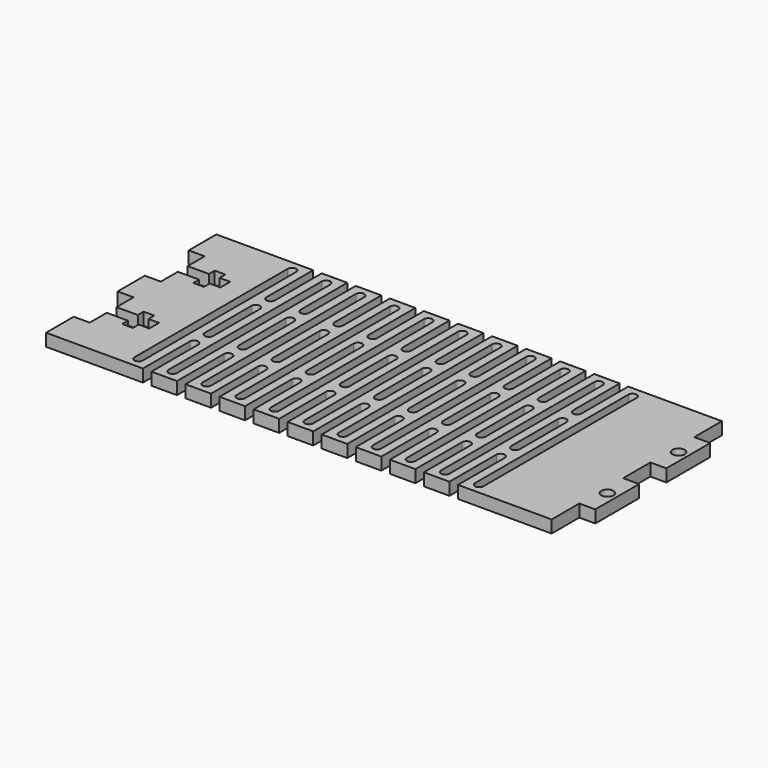
from build123d import *

# Parameters (mm, degrees)
F0_R     = 1.4605
F1_DEPTH = 2.9718


with BuildPart() as f1:
    # F0 (on Top) → F1 (new body)
    with BuildSketch(Plane.XY):
        with BuildLine():
            Line((3.81, 8.255), (0, 8.255))
            Line((0, 8.255), (0, 0))
            Line((0, 0), (23.114, 0))
            Line((23.114, 0), (23.114, 13.97))
            ThreePointArc((23.114, 13.97), (24.13, 14.986), (25.146, 13.97))
            Line((25.146, 13.97), (25.146, 0))
            Line((25.146, 0), (31.242, 0))
            Line((31.242, 0), (31.242, 13.97))
            ThreePointArc((31.242, 13.97), (32.258, 14.986), (33.274, 13.97))
            Line((33.274, 13.97), (33.274, 0))
            Line((33.274, 0), (39.37, 0))
            Line((39.37, 0), (39.37, 13.97))
            ThreePointArc((39.37, 13.97), (40.386, 14.986), (41.402, 13.97))
            Line((41.402, 13.97), (41.402, 0))
            Line((41.402, 0), (47.498, 0))
            Line((47.498, 0), (47.498, 13.97))
            ThreePointArc((47.498, 13.97), (48.514, 14.986), (49.53, 13.97))
            Line((49.53, 13.97), (49.53, 0))
            Line((49.53, 0), (55.626, 0))
            Line((55.626, 0), (55.626, 13.97))
            ThreePointArc((55.626, 13.97), (56.642, 14.986), (57.658, 13.97))
            Line((57.658, 13.97), (57.658, 0))
            Line((57.658, 0), (63.754, 0))
            Line((63.754, 0), (63.754, 13.97))
            ThreePointArc((63.754, 13.97), (64.77, 14.986), (65.786, 13.97))
            Line((65.786, 13.97), (65.786, 0))
            Line((65.786, 0), (71.882, 0))
            Line((71.882, 0), (71.882, 13.97))
            ThreePointArc((71.882, 13.97), (72.898, 14.986), (73.914, 13.97))
            Line((73.914, 13.97), (73.914, 0))
            Line((73.914, 0), (80.01, 0))
            Line((80.01, 0), (80.01, 13.97))
            ThreePointArc((80.01, 13.97), (81.026, 14.986), (82.042, 13.97))
            Line((82.042, 13.97), (82.042, 0))
            Line((82.042, 0), (88.138, 0))
            Line((88.138, 0), (88.138, 13.97))
            ThreePointArc((88.138, 13.97), (89.154, 14.986), (90.17, 13.97))
            Line((90.17, 13.97), (90.17, 0))
            Line((90.17, 0), (96.266, 0))
            Line((96.266, 0), (96.266, 13.97))
            ThreePointArc((96.266, 13.97), (97.282, 14.986), (98.298, 13.97))
            Line((98.298, 13.97), (98.298, 0))
            Line((98.298, 0), (120.65, 0))
            Line((120.65, 0), (120.65, 8.255))
            Line((120.65, 8.255), (124.46, 8.255))
            Line((124.46, 8.255), (124.46, 21.336))
            Line((124.46, 21.336), (120.65, 21.336))
            Line((120.65, 21.336), (120.65, 29.464))
            Line((120.65, 29.464), (124.46, 29.464))
            Line((124.46, 29.464), (124.46, 42.545))
            Line((124.46, 42.545), (120.65, 42.545))
            Line((120.65, 42.545), (120.65, 50.8))
            Line((120.65, 50.8), (98.298, 50.8))
            Line((98.298, 50.8), (98.298, 36.83))
            ThreePointArc((98.298, 36.83), (97.282, 35.814), (96.266, 36.83))
            Line((96.266, 36.83), (96.266, 50.8))
            Line((96.266, 50.8), (90.17, 50.8))
            Line((90.17, 50.8), (90.17, 36.83))
            ThreePointArc((90.17, 36.83), (89.154, 35.814), (88.138, 36.83))
            Line((88.138, 36.83), (88.138, 50.8))
            Line((88.138, 50.8), (82.042, 50.8))
            Line((82.042, 50.8), (82.042, 36.83))
            ThreePointArc((82.042, 36.83), (81.026, 35.814), (80.01, 36.83))
            Line((80.01, 36.83), (80.01, 50.8))
            Line((80.01, 50.8), (73.914, 50.8))
            Line((73.914, 50.8), (73.914, 36.83))
            ThreePointArc((73.914, 36.83), (72.898, 35.814), (71.882, 36.83))
            Line((71.882, 36.83), (71.882, 50.8))
            Line((71.882, 50.8), (65.786, 50.8))
            Line((65.786, 50.8), (65.786, 36.83))
            ThreePointArc((65.786, 36.83), (64.77, 35.814), (63.754, 36.83))
            Line((63.754, 36.83), (63.754, 50.8))
            Line((63.754, 50.8), (57.658, 50.8))
            Line((57.658, 50.8), (57.658, 36.83))
            ThreePointArc((57.658, 36.83), (56.642, 35.814), (55.626, 36.83))
            Line((55.626, 36.83), (55.626, 50.8))
            Line((55.626, 50.8), (49.53, 50.8))
            Line((49.53, 50.8), (49.53, 36.83))
            ThreePointArc((49.53, 36.83), (48.514, 35.814), (47.498, 36.83))
            Line((47.498, 36.83), (47.498, 50.8))
            Line((47.498, 50.8), (41.402, 50.8))
            Line((41.402, 50.8), (41.402, 36.83))
            ThreePointArc((41.402, 36.83), (40.386, 35.814), (39.37, 36.83))
            Line((39.37, 36.83), (39.37, 50.8))
            Line((39.37, 50.8), (33.274, 50.8))
            Line((33.274, 50.8), (33.274, 36.83))
            ThreePointArc((33.274, 36.83), (32.258, 35.814), (31.242, 36.83))
            Line((31.242, 36.83), (31.242, 50.8))
            Line((31.242, 50.8), (25.146, 50.8))
            Line((25.146, 50.8), (25.146, 36.83))
            ThreePointArc((25.146, 36.83), (24.13, 35.814), (23.114, 36.83))
            Line((23.114, 36.83), (23.114, 50.8))
            Line((23.114, 50.8), (0, 50.8))
            Line((0, 50.8), (0, 42.545))
            Line((0, 42.545), (3.81, 42.545))
            Line((3.81, 42.545), (3.81, 37.465))
            Line((3.81, 37.465), (8.89, 37.465))
            Line((8.89, 37.465), (8.89, 39.1922))
            Line((8.89, 39.1922), (11.43, 39.1922))
            Line((11.43, 39.1922), (11.43, 37.465))
            Line((11.43, 37.465), (13.97, 37.465))
            Line((13.97, 37.465), (13.97, 34.544))
            Line((13.97, 34.544), (11.43, 34.544))
            Line((11.43, 34.544), (11.43, 32.8168))
            Line((11.43, 32.8168), (8.89, 32.8168))
            Line((8.89, 32.8168), (8.89, 34.544))
            Line((8.89, 34.544), (3.81, 34.544))
            Line((3.81, 34.544), (3.81, 29.464))
            Line((3.81, 29.464), (0, 29.464))
            Line((0, 29.464), (0, 21.336))
            Line((0, 21.336), (3.81, 21.336))
            Line((3.81, 21.336), (3.81, 16.256))
            Line((3.81, 16.256), (8.89, 16.256))
            Line((8.89, 16.256), (8.89, 17.9832))
            Line((8.89, 17.9832), (11.43, 17.9832))
            Line((11.43, 17.9832), (11.43, 16.256))
            Line((11.43, 16.256), (13.97, 16.256))
            Line((13.97, 16.256), (13.97, 13.335))
            Line((13.97, 13.335), (11.43, 13.335))
            Line((11.43, 13.335), (11.43, 11.6078))
            Line((11.43, 11.6078), (8.89, 11.6078))
            Line((8.89, 11.6078), (8.89, 13.335))
            Line((8.89, 13.335), (3.81, 13.335))
            Line((3.81, 13.335), (3.81, 8.255))
        make_face()
        with BuildLine():
            Line((31.242, 18.415), (31.242, 32.385))
            ThreePointArc((31.242, 32.385), (32.258, 33.401), (33.274, 32.385))
            Line((33.274, 32.385), (33.274, 18.415))
            ThreePointArc((33.274, 18.415), (32.258, 17.399), (31.242, 18.415))
        make_face(mode=Mode.SUBTRACT)
        with BuildLine():
            ThreePointArc((86.105998, 2.54), (85.089998, 1.524), (84.073998, 2.54))
            Line((84.073998, 2.54), (84.073998, 48.26))
            ThreePointArc((84.073998, 48.26), (85.089998, 49.276), (86.105998, 48.26))
            Line((86.105998, 48.26), (86.105998, 2.54))
        make_face(mode=Mode.SUBTRACT)
        with Locations((122.1359, 14.7955)):
            Circle(F0_R, mode=Mode.SUBTRACT)
        with BuildLine():
            ThreePointArc((21.082, 2.54), (20.066, 1.524), (19.05, 2.54))
            Line((19.05, 2.54), (19.05, 48.26))
            ThreePointArc((19.05, 48.26), (20.066, 49.276), (21.082, 48.26))
            Line((21.082, 48.26), (21.082, 2.54))
        make_face(mode=Mode.SUBTRACT)
        with BuildLine():
            Line((23.114, 18.415), (23.114, 32.385))
            ThreePointArc((23.114, 32.385), (24.13, 33.401), (25.146, 32.385))
            Line((25.146, 32.385), (25.146, 18.415))
            ThreePointArc((25.146, 18.415), (24.13, 17.399), (23.114, 18.415))
        make_face(mode=Mode.SUBTRACT)
        with BuildLine():
            ThreePointArc((29.21, 2.54), (28.194, 1.524), (27.178, 2.54))
            Line((27.178, 2.54), (27.178, 48.26))
            ThreePointArc((27.178, 48.26), (28.194, 49.276), (29.21, 48.26))
            Line((29.21, 48.26), (29.21, 2.54))
        make_face(mode=Mode.SUBTRACT)
        with BuildLine():
            ThreePointArc((37.338, 2.54), (36.322, 1.524), (35.306, 2.54))
            Line((35.306, 2.54), (35.306, 48.26))
            ThreePointArc((35.306, 48.26), (36.322, 49.276), (37.338, 48.26))
            Line((37.338, 48.26), (37.338, 2.54))
        make_face(mode=Mode.SUBTRACT)
        with BuildLine():
            Line((39.37, 18.415), (39.37, 32.385))
            ThreePointArc((39.37, 32.385), (40.386, 33.401), (41.402, 32.385))
            Line((41.402, 32.385), (41.402, 18.415))
            ThreePointArc((41.402, 18.415), (40.386, 17.399), (39.37, 18.415))
        make_face(mode=Mode.SUBTRACT)
        with BuildLine():
            ThreePointArc((45.466, 2.54), (44.45, 1.524), (43.434, 2.54))
            Line((43.434, 2.54), (43.434, 48.26))
            ThreePointArc((43.434, 48.26), (44.45, 49.276), (45.466, 48.26))
            Line((45.466, 48.26), (45.466, 2.54))
        make_face(mode=Mode.SUBTRACT)
        with BuildLine():
            Line((47.498, 18.415), (47.498, 32.385))
            ThreePointArc((47.498, 32.385), (48.514, 33.401), (49.53, 32.385))
            Line((49.53, 32.385), (49.53, 18.415))
            ThreePointArc((49.53, 18.415), (48.514, 17.399), (47.498, 18.415))
        make_face(mode=Mode.SUBTRACT)
        with BuildLine():
            ThreePointArc((53.594, 2.54), (52.578, 1.524), (51.562, 2.54))
            Line((51.562, 2.54), (51.562, 48.26))
            ThreePointArc((51.562, 48.26), (52.578, 49.276), (53.594, 48.26))
            Line((53.594, 48.26), (53.594, 2.54))
        make_face(mode=Mode.SUBTRACT)
        with BuildLine():
            Line((55.626, 18.415), (55.626, 32.385))
            ThreePointArc((55.626, 32.385), (56.642, 33.401), (57.658, 32.385))
            Line((57.658, 32.385), (57.658, 18.415))
            ThreePointArc((57.658, 18.415), (56.642, 17.399), (55.626, 18.415))
        make_face(mode=Mode.SUBTRACT)
        with BuildLine():
            ThreePointArc((61.722, 2.54), (60.706, 1.524), (59.69, 2.54))
            Line((59.69, 2.54), (59.69, 48.26))
            ThreePointArc((59.69, 48.26), (60.706, 49.276), (61.722, 48.26))
            Line((61.722, 48.26), (61.722, 2.54))
        make_face(mode=Mode.SUBTRACT)
        with BuildLine():
            Line((63.754, 18.415), (63.754, 32.385))
            ThreePointArc((63.754, 32.385), (64.77, 33.401), (65.786, 32.385))
            Line((65.786, 32.385), (65.786, 18.415))
            ThreePointArc((65.786, 18.415), (64.77, 17.399), (63.754, 18.415))
        make_face(mode=Mode.SUBTRACT)
        with BuildLine():
            ThreePointArc((69.85, 2.54), (68.834, 1.524), (67.818, 2.54))
            Line((67.818, 2.54), (67.818, 48.26))
            ThreePointArc((67.818, 48.26), (68.834, 49.276), (69.85, 48.26))
            Line((69.85, 48.26), (69.85, 2.54))
        make_face(mode=Mode.SUBTRACT)
        with BuildLine():
            Line((71.882, 18.415), (71.882, 32.385))
            ThreePointArc((71.882, 32.385), (72.898, 33.401), (73.914, 32.385))
            Line((73.914, 32.385), (73.914, 18.415))
            ThreePointArc((73.914, 18.415), (72.898, 17.399), (71.882, 18.415))
        make_face(mode=Mode.SUBTRACT)
        with BuildLine():
            ThreePointArc((77.978, 2.54), (76.962, 1.524), (75.946, 2.54))
            Line((75.946, 2.54), (75.946, 48.26))
            ThreePointArc((75.946, 48.26), (76.962, 49.276), (77.978, 48.26))
            Line((77.978, 48.26), (77.978, 2.54))
        make_face(mode=Mode.SUBTRACT)
        with BuildLine():
            Line((80.01, 18.415), (80.01, 32.385))
            ThreePointArc((80.01, 32.385), (81.026, 33.401), (82.042, 32.385))
            Line((82.042, 32.385), (82.042, 18.415))
            ThreePointArc((82.042, 18.415), (81.026, 17.399), (80.01, 18.415))
        make_face(mode=Mode.SUBTRACT)
        with BuildLine():
            Line((88.138, 18.415), (88.138, 32.385))
            ThreePointArc((88.138, 32.385), (89.154, 33.401), (90.17, 32.385))
            Line((90.17, 32.385), (90.17, 18.415))
            ThreePointArc((90.17, 18.415), (89.154, 17.399), (88.138, 18.415))
        make_face(mode=Mode.SUBTRACT)
        with BuildLine():
            ThreePointArc((94.233998, 2.54), (93.217998, 1.524), (92.201998, 2.54))
            Line((92.201998, 2.54), (92.201998, 48.26))
            ThreePointArc((92.201998, 48.26), (93.217998, 49.276), (94.233998, 48.26))
            Line((94.233998, 48.26), (94.233998, 2.54))
        make_face(mode=Mode.SUBTRACT)
        with BuildLine():
            Line((96.266, 18.415), (96.266, 32.385))
            ThreePointArc((96.266, 32.385), (97.282, 33.401), (98.298, 32.385))
            Line((98.298, 32.385), (98.298, 18.415))
            ThreePointArc((98.298, 18.415), (97.282, 17.399), (96.266, 18.415))
        make_face(mode=Mode.SUBTRACT)
        with BuildLine():
            ThreePointArc((102.361998, 2.54), (101.345998, 1.524), (100.329998, 2.54))
            Line((100.329998, 2.54), (100.329998, 48.26))
            ThreePointArc((100.329998, 48.26), (101.345998, 49.276), (102.361998, 48.26))
            Line((102.361998, 48.26), (102.361998, 2.54))
        make_face(mode=Mode.SUBTRACT)
        with Locations((122.1359, 36.0045)):
            Circle(F0_R, mode=Mode.SUBTRACT)
    extrude(amount=F1_DEPTH)


solid = f1.part
